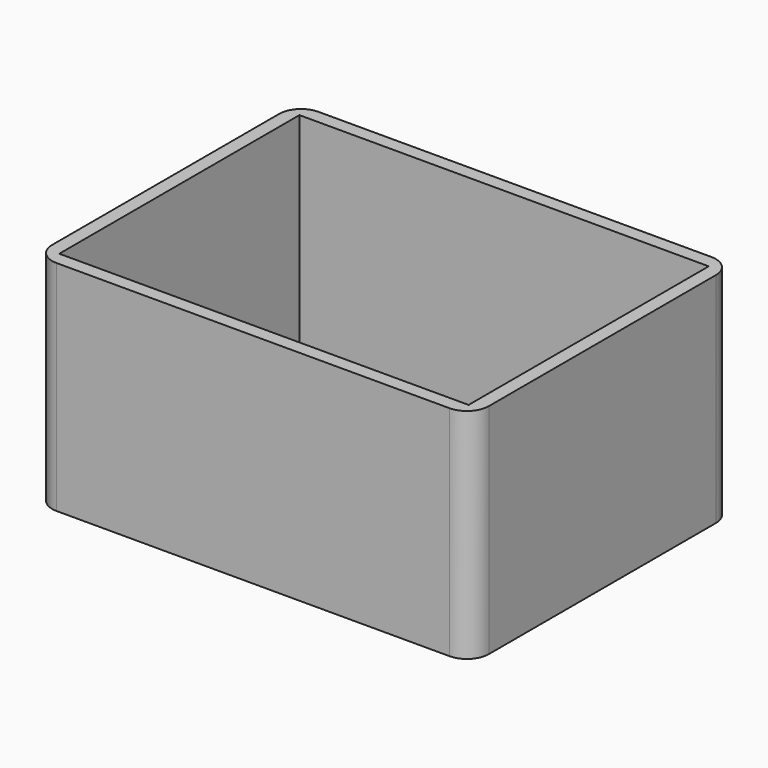
from build123d import *

# Parameters (mm, degrees)
F0_W     = 101.6
F0_H     = 76.2
F0_W_2   = 95.25
F0_H_2   = 69.85
F1_DEPTH = 50.8
F2_DEPTH = 3.175
F3_R     = 5.08


with BuildPart() as f1:
    # F0 (on Top) → F1 (new body)
    with BuildSketch(Plane.XY):
        Rectangle(F0_W, F0_H)
        Rectangle(F0_W_2, F0_H_2, mode=Mode.SUBTRACT)
    extrude(amount=F1_DEPTH)

    # F0 (on Top) → F2 (join)
    with BuildSketch(Plane.XY):
        Rectangle(F0_W_2, F0_H_2)
    extrude(amount=F2_DEPTH)

    # F3
    f3_edges = [f1.edges().sort_by_distance(p)[0] for p in [
        (50.8, 38.1, 25.4),
        (50.8, -38.1, 25.4),
        (-50.8, 38.1, 25.4),
        (-50.8, -38.1, 25.4),
    ]]
    fillet(f3_edges, radius=F3_R)


solid = f1.part
